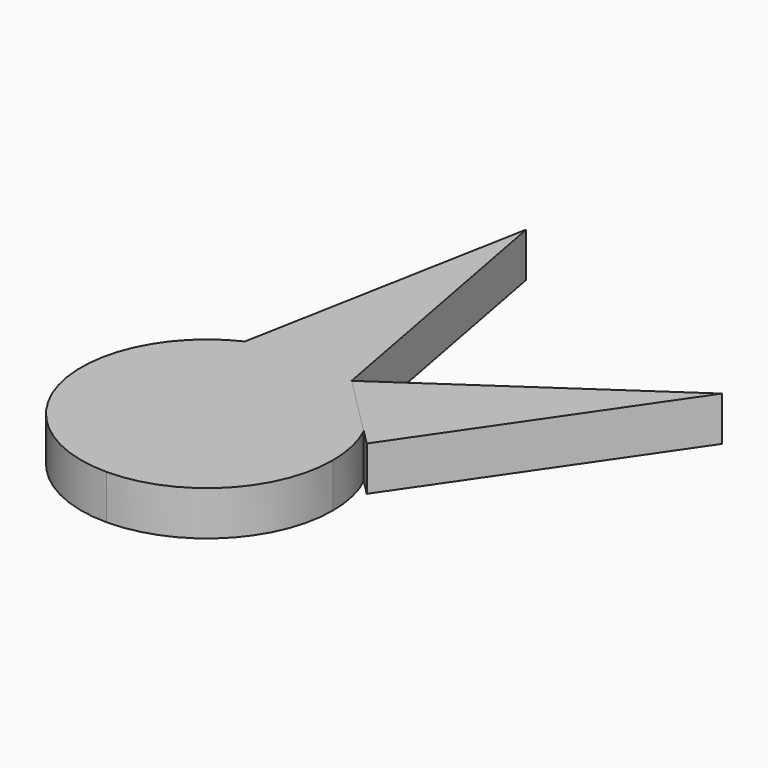
from build123d import *

# Parameters (mm, degrees)
F1_DEPTH = 7.62
F3_ANGLE = -45


with BuildPart() as f1:
    # F0 (on Top) → F1 (new body)
    with BuildSketch(Plane.XY):
        with BuildLine():
            ThreePointArc((0, -21.6360082967), (15.2989681844, -15.2989681844), (21.6360082967, 0))
            ThreePointArc((21.6360082967, 0), (18.2552783593, 11.61299561), (9.1695990413, 19.5968188345))
            Line((9.1695990413, 19.5968188345), (0, 19.5968188345))
            Line((0, 19.5968188345), (0, -21.6360082967))
        make_face()
        with BuildLine():
            ThreePointArc((-9.1695990413, 19.5968188345), (-21.120059066, -4.6968031745), (0, -21.6360082967))
            Line((0, -21.6360082967), (0, 19.5968188345))
            Line((0, 19.5968188345), (-9.1695990413, 19.5968188345))
        make_face()
        with BuildLine():
            Line((0, 19.5968188345), (0, 21.6360082967))
            ThreePointArc((0, 21.6360082967), (-4.6968031745, 21.120059066), (-9.1695990413, 19.5968188345))
            Line((-9.1695990413, 19.5968188345), (0, 19.5968188345))
        make_face()
        with BuildLine():
            Line((0, 19.5968188345), (9.1695990413, 19.5968188345))
            ThreePointArc((9.1695990413, 19.5968188345), (4.6968031745, 21.120059066), (0, 21.6360082967))
            Line((0, 21.6360082967), (0, 19.5968188345))
        make_face()
        with BuildLine():
            ThreePointArc((0, 21.6360082967), (4.6968031745, 21.120059066), (9.1695990413, 19.5968188345))
            Line((9.1695990413, 19.5968188345), (0, 68.5965418816))
            Line((0, 68.5965418816), (-9.1695990413, 19.5968188345))
            ThreePointArc((-9.1695990413, 19.5968188345), (-4.6968031745, 21.120059066), (0, 21.6360082967))
        make_face()
    extrude(amount=F1_DEPTH)


with BuildPart() as f1b:
    # F0 (on Top) → F1, piece 2 (new body)
    with BuildSketch(Plane.XY):
        Polygon((37.4199710786, 47.5520761955), (28.2503720373, -1.4476468515), (46.58957012, -1.4476468515), align=None)
    extrude(amount=F1_DEPTH)


with BuildPart() as f1b_1:
    # F3: moved
    add(f1b.part.rotate(Axis((28.2947197556, 0, 15.5867198482), (0, 0, 1)), F3_ANGLE))


with BuildPart() as f1b_2:
    # F4: moved
    add(f1b_1.part.moved(Location((-18.06496, 20.60445, 0))))


solid = Compound([f1.part, f1b_2.part])
